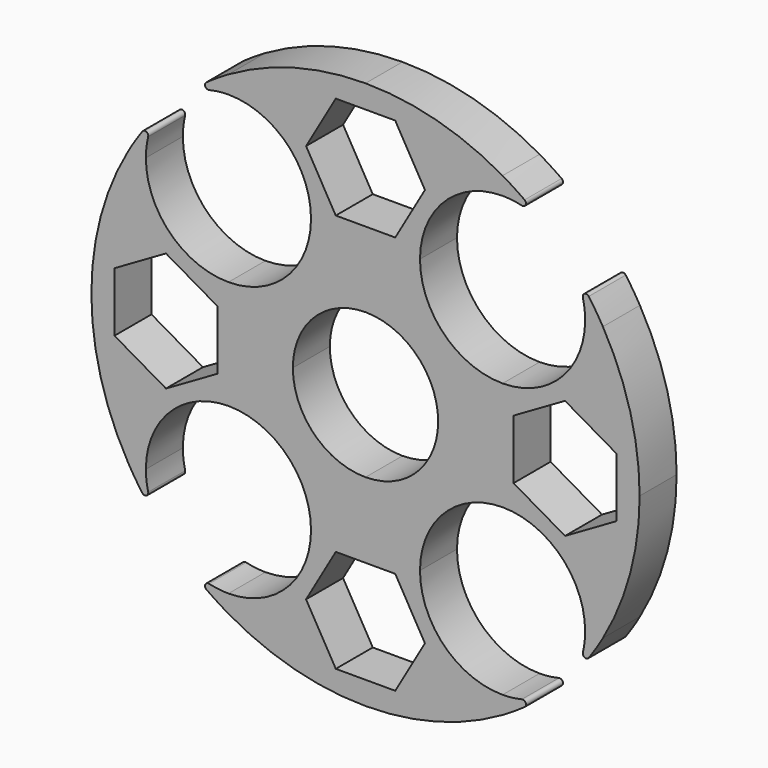
from build123d import *

# Parameters (mm, degrees)
F1_DEPTH = 7
F2_R     = 0.5
F4_DEPTH = 25


with BuildPart() as f1:
    # F0 (on Front) → F1 (new body)
    with BuildSketch(Plane.XZ):
        with BuildLine():
            Line((-8.25, 20.75), (0, 20.75))
            Line((0, 20.75), (0, 41.5))
            ThreePointArc((0, 41.5), (-10.7409903718, 40.085921791), (-20.75, 35.9400542571))
            Line((-20.75, 35.9400542571), (-20.75, 33.25))
            ThreePointArc((-20.75, 33.25), (-11.9111652352, 29.5888347648), (-8.25, 20.75))
        make_face()
        with BuildLine():
            Line((0, 41.5), (0, 20.75))
            Line((0, 20.75), (8.25, 20.75))
            ThreePointArc((8.25, 20.75), (11.9111652352, 29.5888347648), (20.75, 33.25))
            Line((20.75, 33.25), (20.75, 35.9400542571))
            ThreePointArc((20.75, 35.9400542571), (10.7409903718, 40.085921791), (0, 41.5))
        make_face()
        with BuildLine():
            ThreePointArc((-11, 0), (-7.7781745931, 7.7781745931), (0, 11))
            Line((0, 11), (0, 20.75))
            Line((0, 20.75), (-8.25, 20.75))
            ThreePointArc((-8.25, 20.75), (-11.9111652352, 11.9111652352), (-20.75, 8.25))
            Line((-20.75, 8.25), (-20.75, 0))
            Line((-20.75, 0), (-11, 0))
        make_face()
        with BuildLine():
            ThreePointArc((0, 11), (7.7781745931, 7.7781745931), (11, 0))
            Line((11, 0), (20.75, 0))
            Line((20.75, 0), (20.75, 8.25))
            ThreePointArc((20.75, 8.25), (11.9111652352, 11.9111652352), (8.25, 20.75))
            Line((8.25, 20.75), (0, 20.75))
            Line((0, 20.75), (0, 11))
        make_face()
        with BuildLine():
            Line((20.75, 8.25), (20.75, 0))
            Line((20.75, 0), (41.5, 0))
            ThreePointArc((41.5, 0), (40.085921791, 10.7409903718), (35.9400542571, 20.75))
            Line((35.9400542571, 20.75), (33.25, 20.75))
            ThreePointArc((33.25, 20.75), (29.5888347648, 11.9111652352), (20.75, 8.25))
        make_face()
        with BuildLine():
            Line((-41.5, 0), (-20.75, 0))
            Line((-20.75, 0), (-20.75, 8.25))
            ThreePointArc((-20.75, 8.25), (-29.5888347648, 11.9111652352), (-33.25, 20.75))
            Line((-33.25, 20.75), (-35.9400542571, 20.75))
            ThreePointArc((-35.9400542571, 20.75), (-40.085921791, 10.7409903718), (-41.5, 0))
        make_face()
        with BuildLine():
            Line((-20.75, -8.25), (-20.75, 0))
            Line((-20.75, 0), (-41.5, 0))
            ThreePointArc((-41.5, 0), (-40.085921791, -10.7409903718), (-35.9400542571, -20.75))
            Line((-35.9400542571, -20.75), (-33.25, -20.75))
            ThreePointArc((-33.25, -20.75), (-29.5888347648, -11.9111652352), (-20.75, -8.25))
        make_face()
        with BuildLine():
            Line((0, -20.75), (0, -11))
            ThreePointArc((0, -11), (-7.7781745931, -7.7781745931), (-11, 0))
            Line((-11, 0), (-20.75, 0))
            Line((-20.75, 0), (-20.75, -8.25))
            ThreePointArc((-20.75, -8.25), (-11.9111652352, -11.9111652352), (-8.25, -20.75))
            Line((-8.25, -20.75), (0, -20.75))
        make_face()
        with BuildLine():
            Line((0, -41.5), (0, -20.75))
            Line((0, -20.75), (-8.25, -20.75))
            ThreePointArc((-8.25, -20.75), (-11.9111652352, -29.5888347648), (-20.75, -33.25))
            Line((-20.75, -33.25), (-20.75, -35.9400542571))
            ThreePointArc((-20.75, -35.9400542571), (-10.7409903718, -40.085921791), (0, -41.5))
        make_face()
        with BuildLine():
            Line((8.25, -20.75), (0, -20.75))
            Line((0, -20.75), (0, -41.5))
            ThreePointArc((0, -41.5), (10.7409903718, -40.085921791), (20.75, -35.9400542571))
            Line((20.75, -35.9400542571), (20.75, -33.25))
            ThreePointArc((20.75, -33.25), (11.9111652352, -29.5888347648), (8.25, -20.75))
        make_face()
        with BuildLine():
            Line((20.75, 0), (11, 0))
            ThreePointArc((11, 0), (7.7781745931, -7.7781745931), (0, -11))
            Line((0, -11), (0, -20.75))
            Line((0, -20.75), (8.25, -20.75))
            ThreePointArc((8.25, -20.75), (11.9111652352, -11.9111652352), (20.75, -8.25))
            Line((20.75, -8.25), (20.75, 0))
        make_face()
        with BuildLine():
            Line((41.5, 0), (20.75, 0))
            Line((20.75, 0), (20.75, -8.25))
            ThreePointArc((20.75, -8.25), (29.5888347648, -11.9111652352), (33.25, -20.75))
            Line((33.25, -20.75), (35.9400542571, -20.75))
            ThreePointArc((35.9400542571, -20.75), (40.085921791, -10.7409903718), (41.5, 0))
        make_face()
        with BuildLine():
            Line((20.75, -33.25), (20.75, -35.9400542571))
            ThreePointArc((20.75, -35.9400542571), (23.8658688823, -33.9509985493), (26.7923769536, -31.6925628054))
            ThreePointArc((26.7923769536, -31.6925628054), (23.8699330868, -32.854380097), (20.75, -33.25))
        make_face()
        with BuildLine():
            ThreePointArc((31.6925628054, -26.7923769536), (33.9509985493, -23.8658688823), (35.9400542571, -20.75))
            Line((35.9400542571, -20.75), (33.25, -20.75))
            ThreePointArc((33.25, -20.75), (32.854380097, -23.8699330868), (31.6925628054, -26.7923769536))
        make_face()
        with BuildLine():
            ThreePointArc((-26.7923769536, -31.6925628054), (-23.8658688823, -33.9509985493), (-20.75, -35.9400542571))
            Line((-20.75, -35.9400542571), (-20.75, -33.25))
            ThreePointArc((-20.75, -33.25), (-23.8699330868, -32.854380097), (-26.7923769536, -31.6925628054))
        make_face()
        with BuildLine():
            Line((-33.25, -20.75), (-35.9400542571, -20.75))
            ThreePointArc((-35.9400542571, -20.75), (-33.9509985493, -23.8658688823), (-31.6925628054, -26.7923769536))
            ThreePointArc((-31.6925628054, -26.7923769536), (-32.854380097, -23.8699330868), (-33.25, -20.75))
        make_face()
        with BuildLine():
            ThreePointArc((-31.6925628054, 26.7923769536), (-33.9509985493, 23.8658688823), (-35.9400542571, 20.75))
            Line((-35.9400542571, 20.75), (-33.25, 20.75))
            ThreePointArc((-33.25, 20.75), (-32.854380097, 23.8699330868), (-31.6925628054, 26.7923769536))
        make_face()
        with BuildLine():
            Line((-20.75, 33.25), (-20.75, 35.9400542571))
            ThreePointArc((-20.75, 35.9400542571), (-23.8658688823, 33.9509985493), (-26.7923769536, 31.6925628054))
            ThreePointArc((-26.7923769536, 31.6925628054), (-23.8699330868, 32.854380097), (-20.75, 33.25))
        make_face()
        with BuildLine():
            ThreePointArc((26.7923769536, 31.6925628054), (23.8658688823, 33.9509985493), (20.75, 35.9400542571))
            Line((20.75, 35.9400542571), (20.75, 33.25))
            ThreePointArc((20.75, 33.25), (23.8699330868, 32.854380097), (26.7923769536, 31.6925628054))
        make_face()
        with BuildLine():
            Line((33.25, 20.75), (35.9400542571, 20.75))
            ThreePointArc((35.9400542571, 20.75), (33.9509985493, 23.8658688823), (31.6925628054, 26.7923769536))
            ThreePointArc((31.6925628054, 26.7923769536), (32.854380097, 23.8699330868), (33.25, 20.75))
        make_face()
    extrude(amount=F1_DEPTH)

    # F2
    f2_edges = [f1.edges().sort_by_distance(p)[0] for p in [
        (26.792377, -3.5, 31.692563),
        (31.692563, -3.5, 26.792377),
        (31.692563, -3.5, -26.792377),
        (26.792377, -3.5, -31.692563),
        (-26.792377, -3.5, -31.692563),
        (-31.692563, -3.5, -26.792377),
        (-26.792377, -3.5, 31.692563),
        (-31.692563, -3.5, 26.792377),
    ]]
    fillet(f2_edges, radius=F2_R)

    # F3 (on face) → F4 (cut)
    with BuildSketch(Plane.XZ.offset(7)):
        Polygon((-22.4115427319, 0), (-22.4115427319, 4.5), (-30.2057713659, 9), (-38, 4.5), (-38, 0), align=None)
        Polygon((-22.4115427319, -4.5), (-22.4115427319, 0), (-38, 0), (-38, -4.5), (-30.2057713659, -9), align=None)
        Polygon((0, 38), (-4.5, 38), (-9, 30.2057713659), (-4.5, 22.4115427319), (0, 22.4115427319), align=None)
        Polygon((4.5, 38), (0, 38), (0, 22.4115427319), (4.5, 22.4115427319), (9, 30.2057713659), align=None)
        Polygon((38, 0), (38, 4.5), (30.2057713659, 9), (22.4115427319, 4.5), (22.4115427319, 0), align=None)
        Polygon((38, -4.5), (38, 0), (22.4115427319, 0), (22.4115427319, -4.5), (30.2057713659, -9), align=None)
        Polygon((0, -22.4115427319), (-4.5, -22.4115427319), (-9, -30.2057713659), (-4.5, -38), (0, -38), align=None)
        Polygon((4.5, -22.4115427319), (0, -22.4115427319), (0, -38), (4.5, -38), (9, -30.2057713659), align=None)
    extrude(amount=-F4_DEPTH, mode=Mode.SUBTRACT)


solid = f1.part
